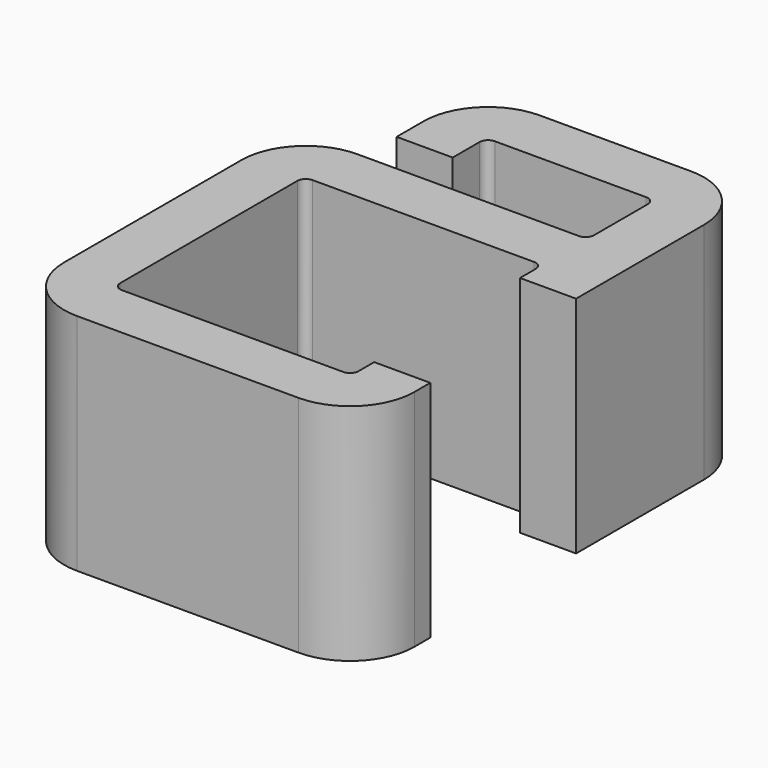
from build123d import *

# Parameters (mm, degrees)
PAD_DEPTH = 8


with BuildPart() as part:
    # Sketch → Pad (new body)
    with BuildSketch(Plane.XY):
        with BuildLine():
            Line((4.25, -3.25), (4.25, -3.95))
            ThreePointArc((3.95, -4.25), (4.162132, -4.162132), (4.25, -3.95))
            Line((3.95, -4.25), (-3.95, -4.25))
            ThreePointArc((-4.25, -3.95), (-4.162132, -4.162132), (-3.95, -4.25))
            Line((-4.25, 3.95), (-4.25, -3.95))
            ThreePointArc((-3.95, 4.25), (-4.162132, 4.162132), (-4.25, 3.95))
            Line((-3.95, 4.25), (3.95, 4.25))
            ThreePointArc((4.25, 3.95), (4.162132, 4.162132), (3.95, 4.25))
            Line((4.25, 3.95), (4.25, 3.25))
            Line((4.25, 3.25), (6.25, 3.25))
            Line((6.25, 6.25), (6.25, 3.25))
            Line((6.25, 8.95), (6.25, 6.25))
            ThreePointArc((6.25, 8.95), (5.576346, 10.576346), (3.95, 11.25))
            Line((-1.45, 11.25), (3.95, 11.25))
            ThreePointArc((-1.45, 11.25), (-3.076346, 10.576346), (-3.75, 8.95))
            Line((-3.75, 8.95), (-3.75, 7.75))
            Line((-3.75, 7.75), (-1.75, 7.75))
            Line((-1.75, 8.95), (-1.75, 7.75))
            ThreePointArc((-1.45, 9.25), (-1.662132, 9.162132), (-1.75, 8.95))
            Line((3.95, 9.25), (-1.45, 9.25))
            ThreePointArc((4.25, 8.95), (4.162132, 9.162132), (3.95, 9.25))
            Line((4.25, 6.55), (4.25, 8.95))
            ThreePointArc((3.95, 6.25), (4.162132, 6.337868), (4.25, 6.55))
            Line((-3.95, 6.25), (3.95, 6.25))
            ThreePointArc((-3.95, 6.25), (-5.576346, 5.576346), (-6.25, 3.95))
            Line((-6.25, -3.95), (-6.25, 3.95))
            ThreePointArc((-6.25, -3.95), (-5.576346, -5.576346), (-3.95, -6.25))
            Line((3.95, -6.25), (-3.95, -6.25))
            ThreePointArc((3.95, -6.25), (5.576346, -5.576346), (6.25, -3.95))
            Line((6.25, -3.25), (6.25, -3.95))
            Line((4.25, -3.25), (6.25, -3.25))
        make_face()
    extrude(amount=PAD_DEPTH)


solid = part.part
